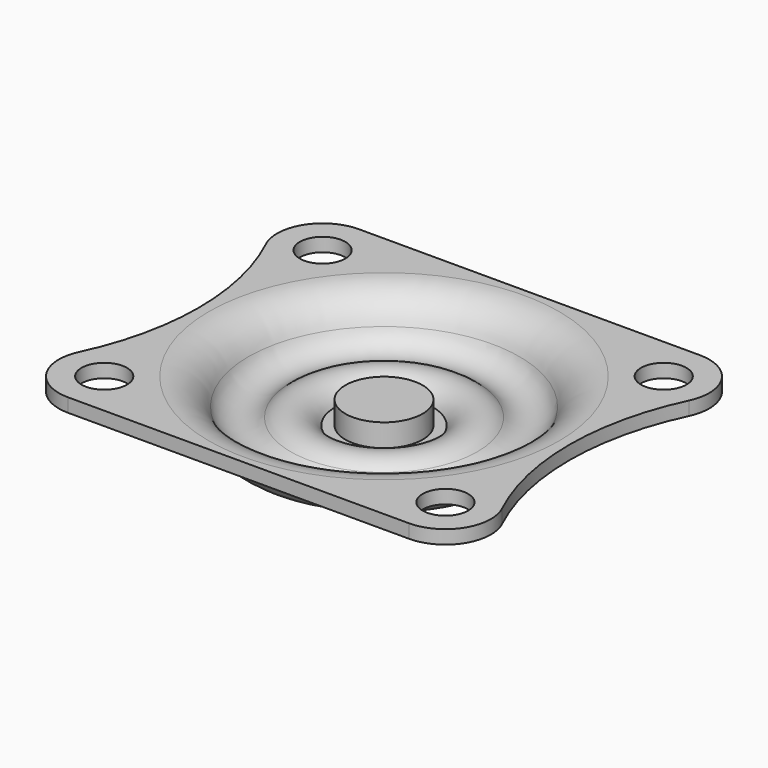
from build123d import *

# Parameters (mm, degrees)
SKETCH001_R     = 28
POCKET_DEPTH    = 5.001
SKETCH003_R     = 2
POCKET001_DEPTH = 5.001
FILLET_R        = 1
SKETCH004_R     = 3.4
PAD_DEPTH       = 2
PAD_FACE5_R     = 2
PAD001_DEPTH    = 2.5
SKETCH005_R     = 5.5
PAD002_DEPTH    = 2
FILLET001_R     = 1


with BuildPart() as part:
    # Sketch → Revolution (revolve)
    with BuildSketch(Plane.XZ):
        with BuildLine():
            Line((2, 0), (5.2, 0))
            ThreePointArc((7.389637, 0.947917), (5.983535, 1.193006), (5.2, 0))
            ThreePointArc((7.389637, 0.947917), (10.542109, 0.08291), (13.033953, 2.19881))
            ThreePointArc((15.4, 3.8), (13.97154, 3.362081), (13.033953, 2.19881))
            Line((15.4, 3.8), (25, 3.8))
            Line((25, 3.8), (25, 5))
            Line((25, 5), (15.4, 5))
            ThreePointArc((15.4, 5), (13.298988, 4.355899), (11.919962, 2.644932))
            ThreePointArc((8.21084, 1.822917), (10.282465, 1.254484), (11.919962, 2.644932))
            ThreePointArc((8.21084, 1.822917), (6.106088, 2.468772), (4.306829, 1.2))
            Line((2, 1.2), (4.306829, 1.2))
            Line((2, 0), (2, 1.2))
        make_face()
    revolve(axis=Axis((0, 0, 0), (0, 0, 1)))

    # Sketch001 (on Face7 of Revolution) → Pocket (cut, through all)
    with BuildSketch(Plane(origin=(0, 0, 5), x_dir=(-1, 0, 0), z_dir=(0, 0, 1))):
        Circle(SKETCH001_R)
        with BuildLine():
            ThreePointArc((-15, 16), (-18.380617, 14.13809), (-18.614032, 10.285714))
            ThreePointArc((-18.614032, -10.285714), (-16.298221, 0), (-18.614032, 10.285714))
            ThreePointArc((-18.614032, -10.285714), (-18.380617, -14.13809), (-15, -16))
            Line((-15, -16), (15, -16))
            ThreePointArc((15, -16), (18.380617, -14.13809), (18.614032, -10.285714))
            ThreePointArc((18.614032, 10.285714), (16.298221, 0), (18.614032, -10.285714))
            ThreePointArc((18.614032, 10.285714), (18.380617, 14.13809), (15, 16))
            Line((-15, 16), (15, 16))
        make_face(mode=Mode.SUBTRACT)
    extrude(amount=-POCKET_DEPTH, mode=Mode.SUBTRACT)

    # Sketch003 → Pocket001 (cut, through all)
    with BuildSketch(Plane(origin=(0, 0, 5), x_dir=(-1, 0, 0), z_dir=(0, 0, 1))):
        with Locations((-15, 12)):
            Circle(SKETCH003_R)
        with Locations((15, 12)):
            Circle(SKETCH003_R)
        with Locations((-15, -12)):
            Circle(SKETCH003_R)
        with Locations((15, -12)):
            Circle(SKETCH003_R)
    extrude(amount=-POCKET001_DEPTH, mode=Mode.SUBTRACT)

    # Fillet
    fillet_edges = [part.edges().sort_by_distance(p)[0] for p in [
        (-5.2, 0, 0),
    ]]
    fillet(fillet_edges, radius=FILLET_R)

    # Sketch004 (on Face5 of Fillet) → Pad (join)
    with BuildSketch(Plane(origin=(0, 0, 1.2), x_dir=(-1, 0, 0), z_dir=(0, 0, 1))):
        Circle(SKETCH004_R)
    extrude(amount=PAD_DEPTH)

    # Pad Face5 → Pad001 (add)
    with BuildSketch(Plane(origin=(0, 0, 1.2), x_dir=(0, -1, 0), z_dir=(0, 0, -1))):
        Circle(PAD_FACE5_R)
    extrude(amount=PAD001_DEPTH)

    # Sketch005 (on Face6 of Pad001) → Pad002 (join)
    with BuildSketch(Plane(origin=(0, 0, -1.3), x_dir=(1, 0, 0), z_dir=(0, 0, -1))):
        Circle(SKETCH005_R)
    extrude(amount=PAD002_DEPTH)

    # Fillet001
    fillet001_edges = [part.edges().sort_by_distance(p)[0] for p in [
        (-5.5, 0, -3.3),
    ]]
    fillet(fillet001_edges, radius=FILLET001_R)


solid = part.part
